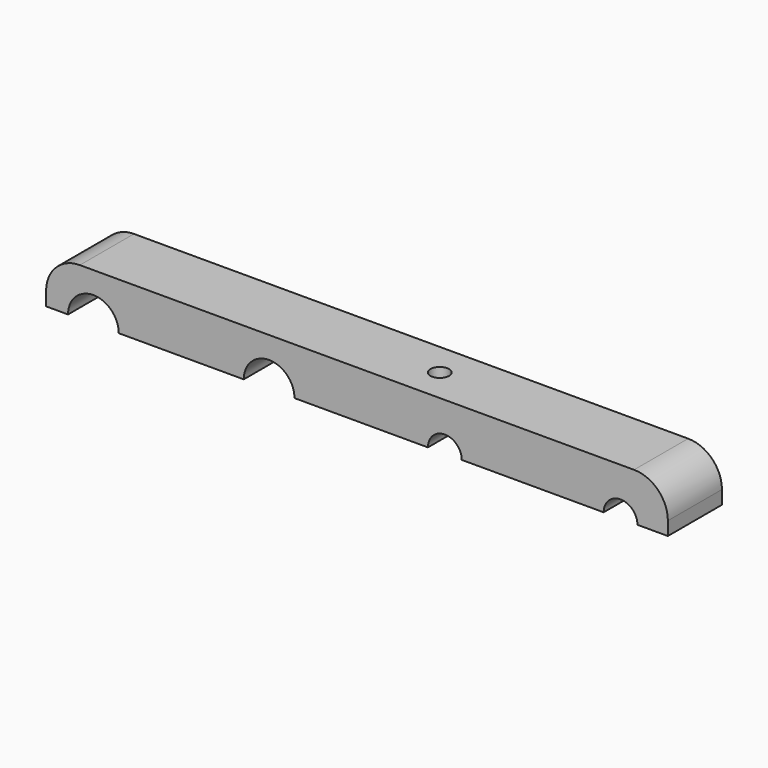
from build123d import *

# Parameters (mm, degrees)
F1_DEPTH = 12.7
F2_R     = 1.7526
F3_DEPTH = 25.4


with BuildPart() as f1:
    # F0 (on Front) → F1 (new body)
    with BuildSketch(Plane.XZ):
        with BuildLine():
            ThreePointArc((-4.7625, 0), (0, 4.7625), (4.7625, 0))
            Line((4.7625, 0), (28.2575, 0))
            ThreePointArc((28.2575, 0), (33.02, 4.7625), (37.7825, 0))
            Line((37.7825, 0), (62.865, 0))
            ThreePointArc((62.865, 0), (66.04, 3.175), (69.215, 0))
            Line((69.215, 0), (95.885, 0))
            ThreePointArc((95.885, 0), (99.06, 3.175), (102.235, 0))
            Line((102.235, 0), (107.95, 0))
            Line((107.95, 0), (107.95, 2.54))
            ThreePointArc((107.95, 2.54), (106.090128, 7.030128), (101.6, 8.89))
            Line((101.6, 8.89), (-2.54, 8.89))
            ThreePointArc((-2.54, 8.89), (-7.030128, 7.030128), (-8.89, 2.54))
            Line((-8.89, 2.54), (-8.89, 0))
            Line((-8.89, 0), (-4.7625, 0))
        make_face()
    extrude(amount=F1_DEPTH)

    # F2 (on face) → F3 (cut)
    with BuildSketch(Plane.XY.offset(8.89)):
        with Locations((60.0075, -6.35)):
            Circle(F2_R)
    extrude(amount=-F3_DEPTH, mode=Mode.SUBTRACT)


solid = f1.part
